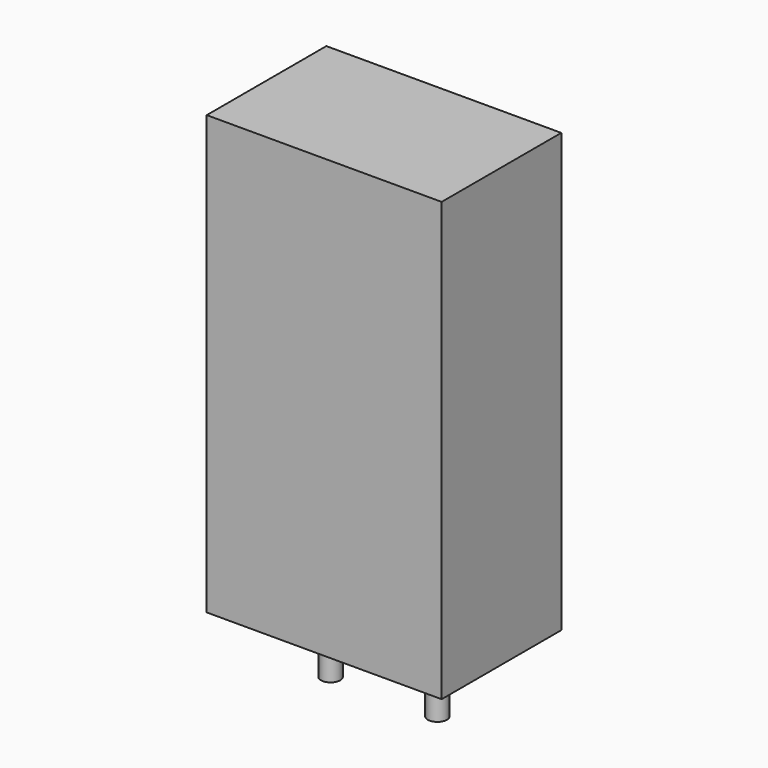
from build123d import *

# Parameters (mm, degrees)
SKETCH_W     = 11
SKETCH_H     = 7
PAD_DEPTH    = 20.5
SKETCH001_R  = 0.45
PAD001_DEPTH = 3.5


with BuildPart() as pad:
    # Sketch → Pad (new body)
    with BuildSketch(Plane.XY.offset(0.1)):
        with Locations((2.5, 0)):
            Rectangle(SKETCH_W, SKETCH_H)
    extrude(amount=PAD_DEPTH)


with BuildPart() as pad001:
    # Sketch001 → Pad001 (new body)
    with BuildSketch(Plane.XY.offset(0.5)):
        Circle(SKETCH001_R)
        with Locations((5, 0)):
            Circle(SKETCH001_R)
    extrude(amount=-PAD001_DEPTH)


solid = Compound([pad.part, pad001.part])
